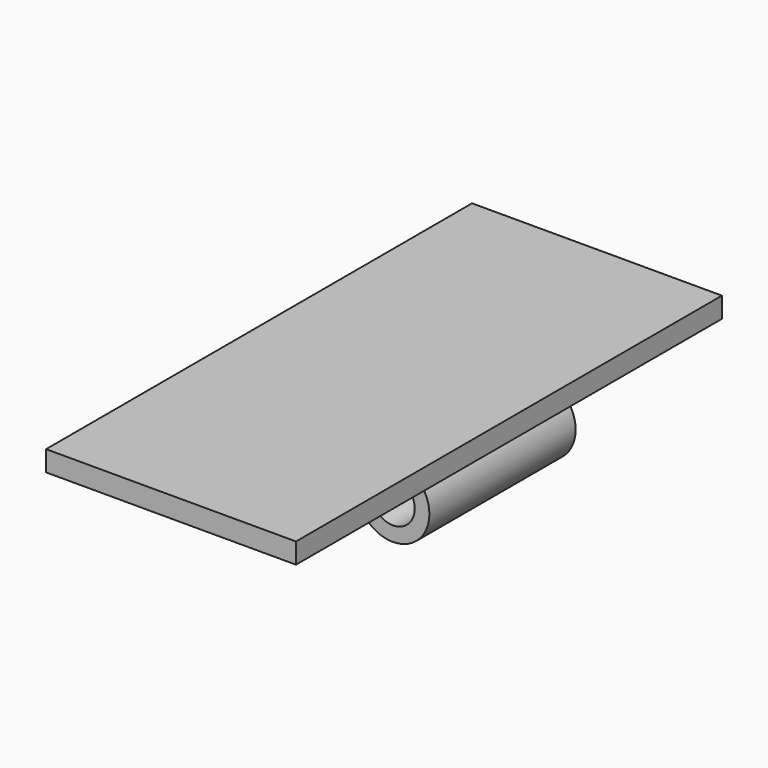
from build123d import *

# Parameters (mm, degrees)
F0_R          = 4.985
F0_R_2        = 2.985
F1_DEPTH      = 25
F4_W          = 9.97
F4_H          = 25
F4_W_2        = 14.23
F5_DEPTH      = 1
F5_DEPTH_BACK = 1.8


with BuildPart() as f1:
    # F0 (on Front) → F1 (new body)
    with BuildSketch(Plane.XZ):
        Circle(F0_R)
        Circle(F0_R_2, mode=Mode.SUBTRACT)
    extrude(amount=F1_DEPTH)


with BuildPart() as f2_1:
    # F2: copy of F1
    add(f1.part.moved(Location((24.2, 0, 0))))


with BuildPart() as f5:
    # F4 (on offset) → F5 (new body, two sides)
    with BuildSketch(Plane.XY.offset(4.97)) as f5_sk:
        Polygon((-4.985, 0), (4.985, 0), (19.215, 0), (29.185, 0), (29.185, 25), (-4.985, 25), align=None)
        Polygon((4.985, -25), (4.985, 0), (-4.985, 0), (-4.985, -27.803428), (4.985, -27.803428), align=None)
        Polygon((19.215, -25), (4.985, -25), (4.985, -27.803428), (29.185, -27.803428), (29.185, -25), align=None)
        with Locations((24.2, -12.5)):
            Rectangle(F4_W, F4_H)
        Polygon((29.185, -27.803428), (4.985, -27.803428), (-4.985, -27.803428), (-4.985, -47.803428), (29.185, -47.803428), align=None)
        with Locations((12.1, -12.5)):
            Rectangle(F4_W_2, F4_H)
    extrude(amount=F5_DEPTH)
    extrude(f5_sk.sketch, amount=-F5_DEPTH_BACK)


solid = Compound([f1.part, f2_1.part, f5.part])
